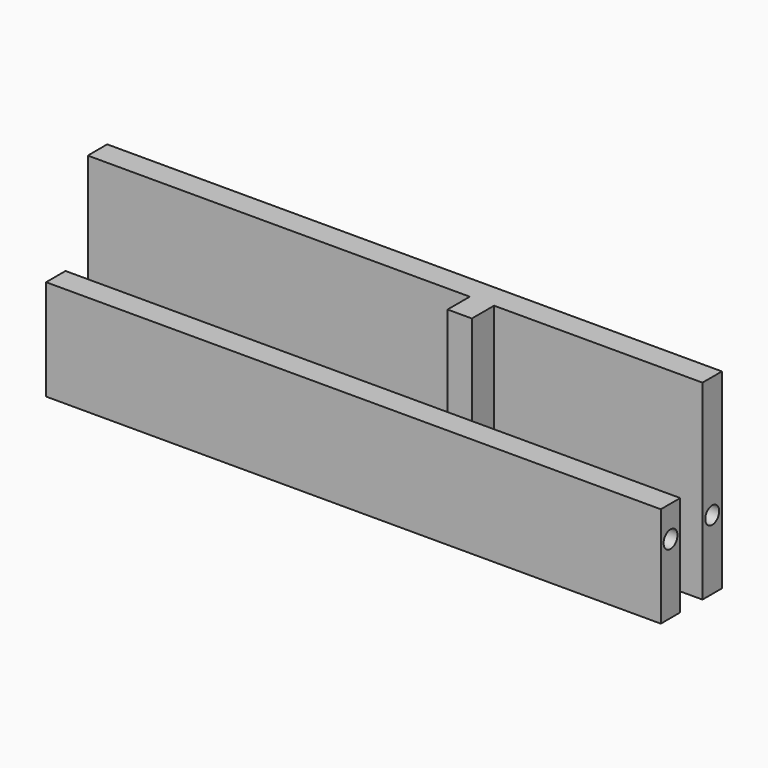
from build123d import *

# Parameters (mm, degrees)
CYLINDER151_R             = 2.6
CYLINDER151_DEPTH         = 2
CYLINDER146_R             = 2.5
CYLINDER146_DEPTH         = 5
FUSION068_PLACEMENT_ANGLE = 90
CYLINDER143_R             = 2.6
CYLINDER143_DEPTH         = 2
CYLINDER142_R             = 2.5
CYLINDER142_DEPTH         = 5
FUSION067_PLACEMENT_ANGLE = 270
CYLINDER141_R             = 2.6
CYLINDER141_DEPTH         = 2
CYLINDER140_R             = 2.5
CYLINDER140_DEPTH         = 5
FUSION065_PLACEMENT_ANGLE = 90
CYLINDER133_R             = 2.6
CYLINDER133_DEPTH         = 2
CYLINDER132_R             = 2.5
CYLINDER132_DEPTH         = 5
CYLINDER135_R             = 2.6
CYLINDER135_DEPTH         = 2
CYLINDER136_R             = 2.5
CYLINDER136_DEPTH         = 5
CYLINDER131_R             = 2.6
CYLINDER131_DEPTH         = 2
CYLINDER130_R             = 2.5
CYLINDER130_DEPTH         = 5
CYLINDER134_R             = 2.6
CYLINDER134_DEPTH         = 2
CYLINDER137_R             = 2.5
CYLINDER137_DEPTH         = 5
CYLINDER150_R             = 2.6
CYLINDER150_DEPTH         = 2
CYLINDER149_R             = 2.5
CYLINDER149_DEPTH         = 5
FUSION069_PLACEMENT_ANGLE = 90
BOX030_W                  = 177
BOX030_H                  = 7
BOX030_DEPTH              = 29
BOX036_W                  = 7
BOX036_H                  = 15
BOX036_DEPTH              = 55
BOX031_W                  = 177
BOX031_H                  = 7
BOX031_DEPTH              = 55


with BuildPart() as cilindro151:
    # Cylinder151 → Cylinder151 (new body)
    with BuildSketch(Plane.XY.offset(5)):
        Circle(CYLINDER151_R)
    extrude(amount=CYLINDER151_DEPTH)


with BuildPart() as obj1:
    # Cylinder146 → Cylinder146 (new body)
    with BuildSketch(Plane.XY):
        Circle(CYLINDER146_R)
    extrude(amount=CYLINDER146_DEPTH)

    # Fusion068: union Cilindro151
    add(cilindro151.part)


with BuildPart() as obj1_1:
    # Fusion068 placement: moved
    add(obj1.part.moved(Location((88.5, 44.5, 30))).rotate(Axis((88.5, 44.5, 30), (0, -1, 0)), FUSION068_PLACEMENT_ANGLE))


with BuildPart() as cilindro143:
    # Cylinder143 → Cylinder143 (new body)
    with BuildSketch(Plane.XY.offset(5)):
        Circle(CYLINDER143_R)
    extrude(amount=CYLINDER143_DEPTH)


with BuildPart() as obj2:
    # Cylinder142 → Cylinder142 (new body)
    with BuildSketch(Plane.XY):
        Circle(CYLINDER142_R)
    extrude(amount=CYLINDER142_DEPTH)

    # Fusion067: union Cilindro143
    add(cilindro143.part)


with BuildPart() as obj2_1:
    # Fusion067 placement: moved
    add(obj2.part.moved(Location((88.5, 29.5, 30))).rotate(Axis((88.5, 29.5, 30), (0, 1, 0)), FUSION067_PLACEMENT_ANGLE))


with BuildPart() as cilindro141:
    # Cylinder141 → Cylinder141 (new body)
    with BuildSketch(Plane.XY.offset(5)):
        Circle(CYLINDER141_R)
    extrude(amount=CYLINDER141_DEPTH)


with BuildPart() as obj3:
    # Cylinder140 → Cylinder140 (new body)
    with BuildSketch(Plane.XY):
        Circle(CYLINDER140_R)
    extrude(amount=CYLINDER140_DEPTH)

    # Fusion065: union Cilindro141
    add(cilindro141.part)


with BuildPart() as obj3_1:
    # Fusion065 placement: moved
    add(obj3.part.moved(Location((-88.5, 29.5, 30))).rotate(Axis((-88.5, 29.5, 30), (0, 1, 0)), FUSION065_PLACEMENT_ANGLE))


with BuildPart() as cilindro133:
    # Cylinder133 → Cylinder133 (new body)
    with BuildSketch(Plane.XY.offset(5)):
        Circle(CYLINDER133_R)
    extrude(amount=CYLINDER133_DEPTH)


with BuildPart() as obj4:
    # Cylinder132 → Cylinder132 (new body)
    with BuildSketch(Plane.XY):
        Circle(CYLINDER132_R)
    extrude(amount=CYLINDER132_DEPTH)

    # Fusion063: union Cilindro133
    add(cilindro133.part)


with BuildPart() as obj4_1:
    # Fusion063 placement: moved
    add(obj4.part.moved(Location((-78, 29.5, 10))))


with BuildPart() as cilindro135:
    # Cylinder135 → Cylinder135 (new body)
    with BuildSketch(Plane.XY.offset(5)):
        Circle(CYLINDER135_R)
    extrude(amount=CYLINDER135_DEPTH)


with BuildPart() as obj5:
    # Cylinder136 → Cylinder136 (new body)
    with BuildSketch(Plane.XY):
        Circle(CYLINDER136_R)
    extrude(amount=CYLINDER136_DEPTH)

    # Fusion062: union Cilindro135
    add(cilindro135.part)


with BuildPart() as obj5_1:
    # Fusion062 placement: moved
    add(obj5.part.moved(Location((12, 44.5, 10))))


with BuildPart() as cilindro131:
    # Cylinder131 → Cylinder131 (new body)
    with BuildSketch(Plane.XY.offset(5)):
        Circle(CYLINDER131_R)
    extrude(amount=CYLINDER131_DEPTH)


with BuildPart() as obj6:
    # Cylinder130 → Cylinder130 (new body)
    with BuildSketch(Plane.XY):
        Circle(CYLINDER130_R)
    extrude(amount=CYLINDER130_DEPTH)

    # Fusion060: union Cilindro131
    add(cilindro131.part)


with BuildPart() as obj6_1:
    # Fusion060 placement: moved
    add(obj6.part.moved(Location((12, 29.5, 10))))


with BuildPart() as cilindro134:
    # Cylinder134 → Cylinder134 (new body)
    with BuildSketch(Plane.XY.offset(5)):
        Circle(CYLINDER134_R)
    extrude(amount=CYLINDER134_DEPTH)


with BuildPart() as obj7:
    # Cylinder137 → Cylinder137 (new body)
    with BuildSketch(Plane.XY):
        Circle(CYLINDER137_R)
    extrude(amount=CYLINDER137_DEPTH)

    # Fusion061: union Cilindro134
    add(cilindro134.part)


with BuildPart() as obj7_1:
    # Fusion061 placement: moved
    add(obj7.part.moved(Location((-78, 44.5, 10))))


with BuildPart() as cilindro150:
    # Cylinder150 → Cylinder150 (new body)
    with BuildSketch(Plane.XY.offset(5)):
        Circle(CYLINDER150_R)
    extrude(amount=CYLINDER150_DEPTH)


with BuildPart() as fusion073:
    # Cylinder149 → Cylinder149 (new body)
    with BuildSketch(Plane.XY):
        Circle(CYLINDER149_R)
    extrude(amount=CYLINDER149_DEPTH)

    # Fusion069: union Cilindro150
    add(cilindro150.part)


with BuildPart() as fusion073_1:
    # Fusion069 placement: moved
    add(fusion073.part.moved(Location((-88.5, 44.5, 30))).rotate(Axis((-88.5, 44.5, 30), (0, 1, 0)), FUSION069_PLACEMENT_ANGLE))

    # Fusion073: union obj1, obj2, obj3, obj4, obj5, obj6, obj7
    add(obj1_1.part)
    add(obj2_1.part)
    add(obj3_1.part)
    add(obj4_1.part)
    add(obj5_1.part)
    add(obj6_1.part)
    add(obj7_1.part)


with BuildPart() as cubo027:
    # Box030 → Box030 (new body)
    with BuildSketch(Plane(origin=(-88.5, 26, 10), x_dir=(1, 0, 0), z_dir=(0, 0, 1))):
        with Locations((88.5, 3.5)):
            Rectangle(BOX030_W, BOX030_H)
    extrude(amount=BOX030_DEPTH)


with BuildPart() as cubo033:
    # Box036 → Box036 (new body)
    with BuildSketch(Plane(origin=(21.5, 33, 10), x_dir=(1, 0, 0), z_dir=(0, 0, 1))):
        with Locations((3.5, 7.5)):
            Rectangle(BOX036_W, BOX036_H)
    extrude(amount=BOX036_DEPTH)


with BuildPart() as obj8:
    # Box031 → Box031 (new body)
    with BuildSketch(Plane(origin=(-88.5, 41, 10), x_dir=(1, 0, 0), z_dir=(0, 0, 1))):
        with Locations((88.5, 3.5)):
            Rectangle(BOX031_W, BOX031_H)
    extrude(amount=BOX031_DEPTH)

    # Fusion072: union Cubo027, Cubo033
    add(cubo027.part)
    add(cubo033.part)

    # Cut057: cut Fusion073
    add(fusion073_1.part, mode=Mode.SUBTRACT)


solid = obj8.part
